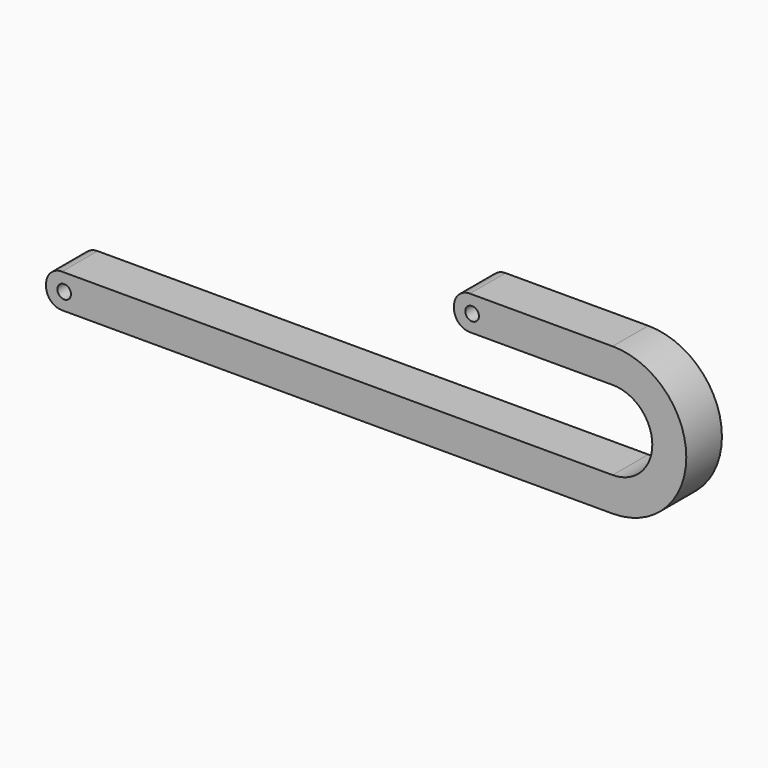
from build123d import *

# Parameters (mm, degrees)
F0_R     = 3
F1_DEPTH = 19.65
F2_R     = 7


with BuildPart() as f1:
    # F0 (on Front) → F1 (new body)
    with BuildSketch(Plane.XZ):
        with BuildLine():
            ThreePointArc((0, 17.5), (17.5, 0), (0, -17.5))
            Line((0, -17.5), (-250, -17.5))
            Line((-250, -17.5), (-250, -32.5))
            Line((-250, -32.5), (0, -32.5))
            ThreePointArc((0, -32.5), (32.5, 0), (0, 32.5))
            Line((0, 32.5), (-70, 32.5))
            Line((-70, 32.5), (-70, 17.5))
            Line((-70, 17.5), (0, 17.5))
        make_face()
        with Locations((-242, -25)):
            Circle(F0_R, mode=Mode.SUBTRACT)
        with Locations((-62, 25)):
            Circle(F0_R, mode=Mode.SUBTRACT)
    extrude(amount=F1_DEPTH)

    # F2
    f2_edges = [f1.edges().sort_by_distance(p)[0] for p in [
        (-250, -9.825, -17.5),
        (-250, -9.825, -32.5),
        (-70, -9.825, 17.5),
        (-70, -9.825, 32.5),
    ]]
    fillet(f2_edges, radius=F2_R)


solid = f1.part
